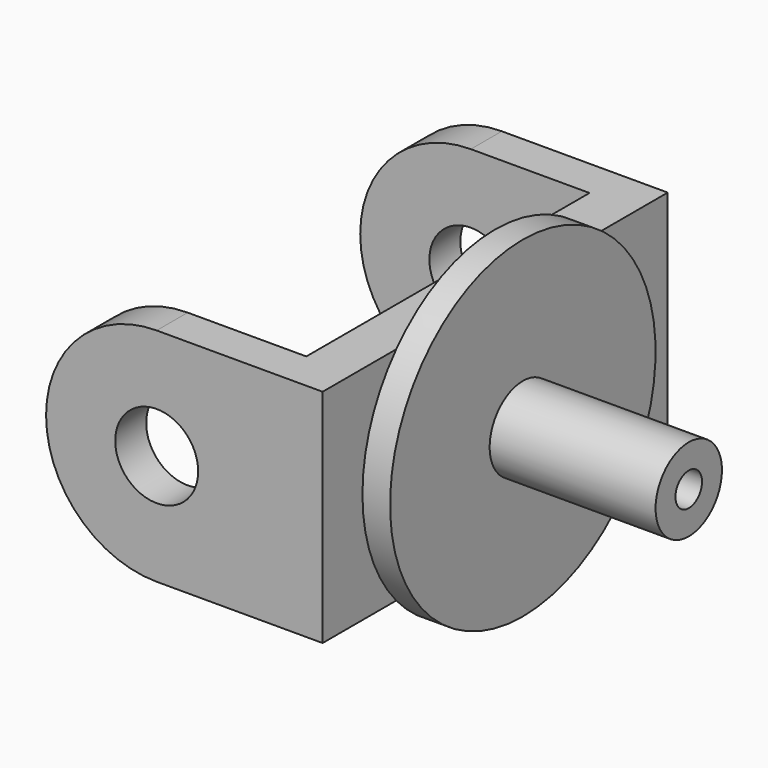
from build123d import *

# Parameters (mm, degrees)
F0_W     = 5
F0_H     = 7.5
F2_DEPTH = 39
F3_W     = 41.4538450539
F3_H     = 32
F4_DEPTH = 50
F5_R     = 7.5
F6_DEPTH = 78.001


with BuildPart() as f1:
    # F0 (on Front) → F1 (revolve)
    with BuildSketch(Plane.XZ):
        Polygon((5, 7.5), (5, 0), (19, 0), (19, 3), (35, 3), (35, 7.5), align=None)
        with Locations((2.5, 3.75)):
            Rectangle(F0_W, F0_H)
        Polygon((0, 20), (0, 7.5), (5, 7.5), (5, 30), (0, 30), align=None)
    revolve(axis=Axis((17.5, 0, 0), (1, 0, 0)))

    # F0 (on Front) → F2 (join, symmetric)
    with BuildSketch(Plane.XZ):
        with BuildLine():
            ThreePointArc((-30, -20), (-15.8578643763, -14.1421356237), (-10, 0))
            ThreePointArc((-10, 0), (-15.8578643763, 14.1421356237), (-30, 20))
            ThreePointArc((-30, 20), (-50, 0), (-30, -20))
        make_face()
        with BuildLine():
            Line((-10, 0), (0, 0))
            Line((0, 0), (0, 7.5))
            Line((0, 7.5), (0, 20))
            Line((0, 20), (-30, 20))
            ThreePointArc((-30, 20), (-15.8578643763, 14.1421356237), (-10, 0))
        make_face()
        with BuildLine():
            Line((0, -7.5), (0, 0))
            Line((0, 0), (-10, 0))
            ThreePointArc((-10, 0), (-15.8578643763, -14.1421356237), (-30, -20))
            Line((-30, -20), (0, -20))
            Line((0, -20), (0, -7.5))
        make_face()
    extrude(amount=F2_DEPTH, both=True)

    # F3 (on Top) → F4 (cut, symmetric)
    with BuildSketch(Plane.XY):
        with Locations((-29.273077473, -16)):
            Rectangle(F3_W, F3_H)
        with Locations((-29.273077473, 16)):
            Rectangle(F3_W, F3_H)
    extrude(amount=F4_DEPTH, both=True, mode=Mode.SUBTRACT)

    # F5 (on face) → F6 (cut, through all)
    with BuildSketch(Plane.XZ.offset(39)):
        with Locations((-30, 0)):
            Circle(F5_R)
    extrude(amount=-F6_DEPTH, mode=Mode.SUBTRACT)


solid = f1.part
